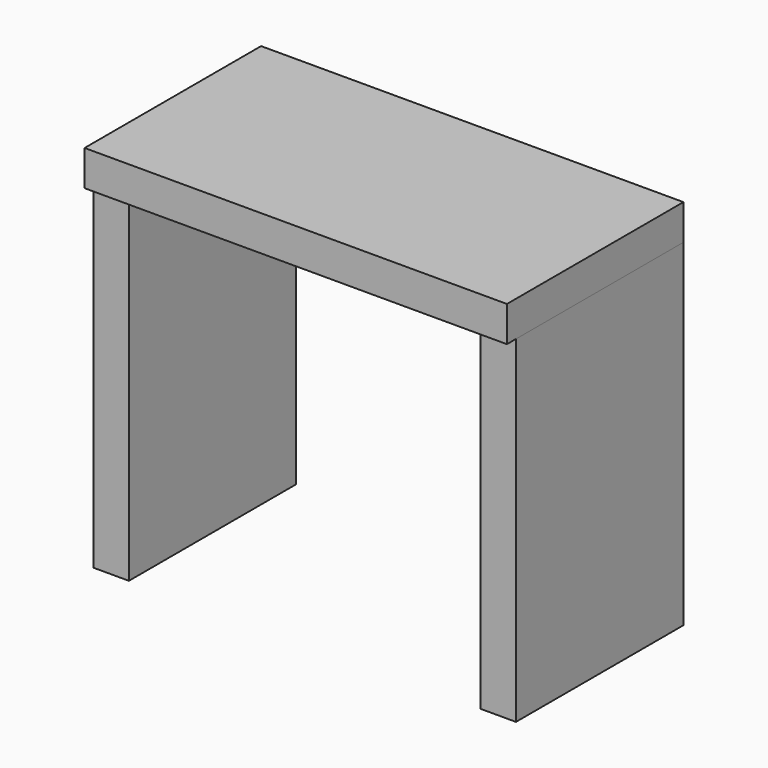
from build123d import *

# Parameters (mm, degrees)
F0_W     = 302.9477596283
F0_H     = 158.2464948297
F1_DEPTH = 25.4
F2_W     = 150.0960886478
F2_H     = 241.8254166842
F3_DEPTH = 25.4
F5_START = -277.64065
F4_W     = 149.9864310026
F4_H     = 243.0154532194
F5_DEPTH = 25.45956


with BuildPart() as f1:
    # F0 (on Top) → F1 (new body)
    with BuildSketch(Plane.XY):
        with Locations((-151.4738798141, 71.0208192468)):
            Rectangle(F0_W, F0_H)
    extrude(amount=F1_DEPTH)

    # F4 (on Right) → F5 (join)
    with BuildSketch(Plane.YZ.offset(F5_START)):
        with Locations((74.9932155013, -121.5077266097)):
            Rectangle(F4_W, F4_H)
    extrude(amount=-F5_DEPTH)


with BuildPart() as f3:
    # F2 (on Right) → F3 (new body)
    with BuildSketch(Plane.YZ):
        with Locations((75.0480443239, -120.9127083421)):
            Rectangle(F2_W, F2_H)
    extrude(amount=-F3_DEPTH)


solid = Compound([f1.part, f3.part])
